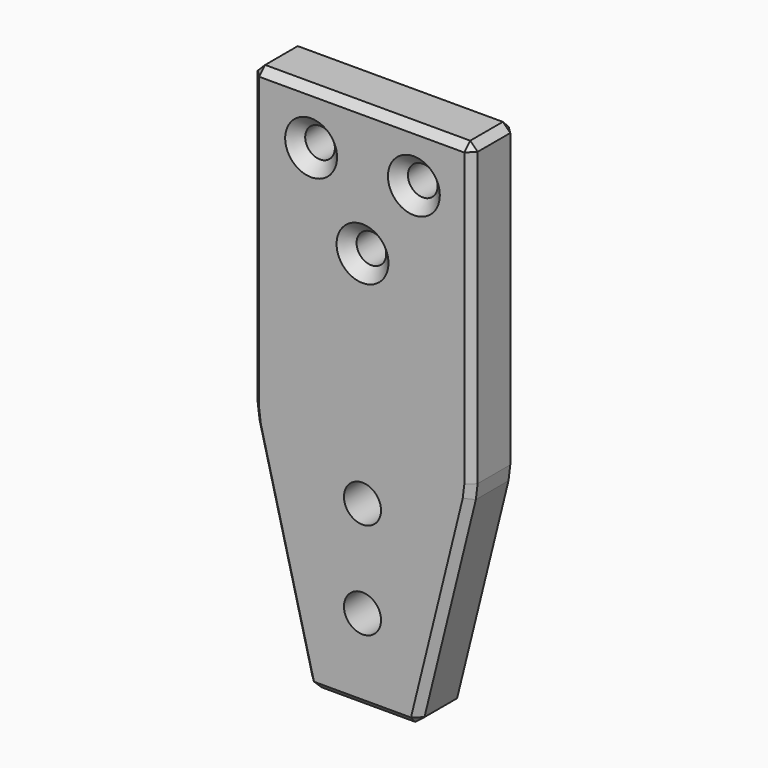
from build123d import *

# Parameters (mm, degrees)
PAD_DEPTH       = 15
CHAMFER_SIZE    = 2
SKETCH001_R     = 4
SKETCH001_R_2   = 5
POCKET_DEPTH    = 15.001
CHAMFER001_SIZE = 3


with BuildPart() as part:
    # Sketch → Pad (new body)
    with BuildSketch(Plane.XZ):
        Polygon((-29.863335, -15.849396), (-29.863335, 66.950175), (29.461527, 66.950175), (29.461527, -15.849396), (14.639226, -75.912064), (-14.639226, -75.912064), align=None)
    extrude(amount=PAD_DEPTH)

    # Chamfer
    chamfer_edges = [part.edges().sort_by_distance(p)[0] for p in [
        (-29.863335, -7.5, -15.849396),
        (-29.863335, -7.5, 66.950175),
        (-29.863335, 0, 25.55039),
        (-29.863335, -15, 25.55039),
        (29.461527, -7.5, 66.950175),
        (-0.200904, 0, 66.950175),
        (-0.200904, -15, 66.950175),
        (29.461527, -7.5, -15.849396),
        (29.461527, 0, 25.55039),
        (29.461527, -15, 25.55039),
        (14.639226, -7.5, -75.912064),
        (22.050376, 0, -45.88073),
        (22.050376, -15, -45.88073),
        (-14.639226, -7.5, -75.912064),
        (0, 0, -75.912064),
        (0, -15, -75.912064),
        (-22.251281, 0, -45.88073),
        (-22.251281, -15, -45.88073),
    ]]
    chamfer(chamfer_edges, length=CHAMFER_SIZE)

    # Sketch001 → Pocket (cut, through all)
    with BuildSketch(Plane.XZ):
        with Locations((-13.859818, 52.636753)):
            Circle(SKETCH001_R)
        with Locations((13.859818, 52.636753)):
            Circle(SKETCH001_R)
        with Locations((0, 32.020428)):
            Circle(SKETCH001_R)
        with Locations((0, -27.362068)):
            Circle(SKETCH001_R_2)
        with Locations((0, -53.42556)):
            Circle(SKETCH001_R_2)
    extrude(amount=POCKET_DEPTH, mode=Mode.SUBTRACT)

    # Chamfer001
    chamfer001_edges = [part.edges().sort_by_distance(p)[0] for p in [
        (-17.859818, -15, 52.636753),
        (9.859818, -15, 52.636753),
        (-4, -15, 32.020428),
    ]]
    chamfer(chamfer001_edges, length=CHAMFER001_SIZE)


solid = part.part
